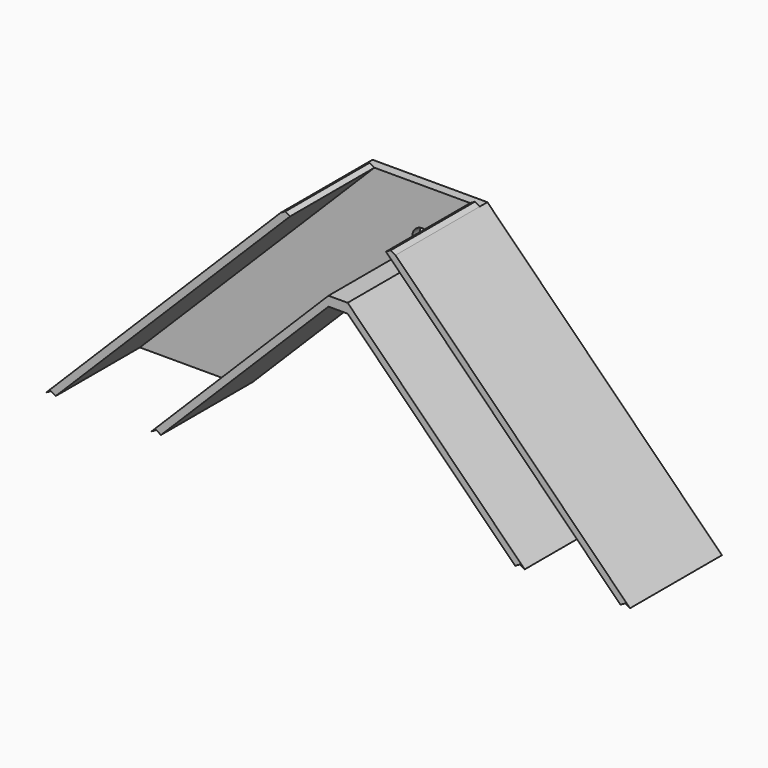
from build123d import *

# Parameters (mm, degrees)
SKETCH007_R      = 4.125
EXTRUDE009_DEPTH = 4
EXTRUDE008_DEPTH = 44


with BuildPart() as extrude009:
    # Sketch007 → Extrude009 (new body)
    with BuildSketch(Plane.XZ):
        Polygon((-24, 98), (-20, 98), (20, 98), (24, 98), (122, 0), (118, 0), (78, 0), (74, 0), (4, 70), (-4, 70), (-74, 0), (-78, 0), (-118, 0), (-122, 0), align=None)
        with Locations((0, 78.125)):
            Circle(SKETCH007_R, mode=Mode.SUBTRACT)
    extrude(amount=EXTRUDE009_DEPTH)


with BuildPart() as stage_2_paths:
    # Sketch006 → Extrude008 (new body)
    with BuildSketch(Plane.XZ):
        Polygon((-20, 98), (-118, 0), (-120, 1.154701), (-122, 0), (-24, 98), (-22, 99.154701), align=None)
        Polygon((118, 0), (20, 98), (22, 99.154701), (24, 98), (122, 0), (120, 1.154701), align=None)
        Polygon((-4, 70), (-74, 0), (-76, 1.154701), (-78, 0), (-4, 74), (4, 74), (78, 0), (76, 1.154701), (74, 0), (4, 70), align=None)
    extrude(amount=EXTRUDE008_DEPTH)


with BuildPart() as stage_2_paths_1:
    # Extrude008 placement: moved
    add(stage_2_paths.part.moved(Location((0, -4, 0))))

    # Fusion002: union Extrude009
    add(extrude009.part)


solid = stage_2_paths_1.part
